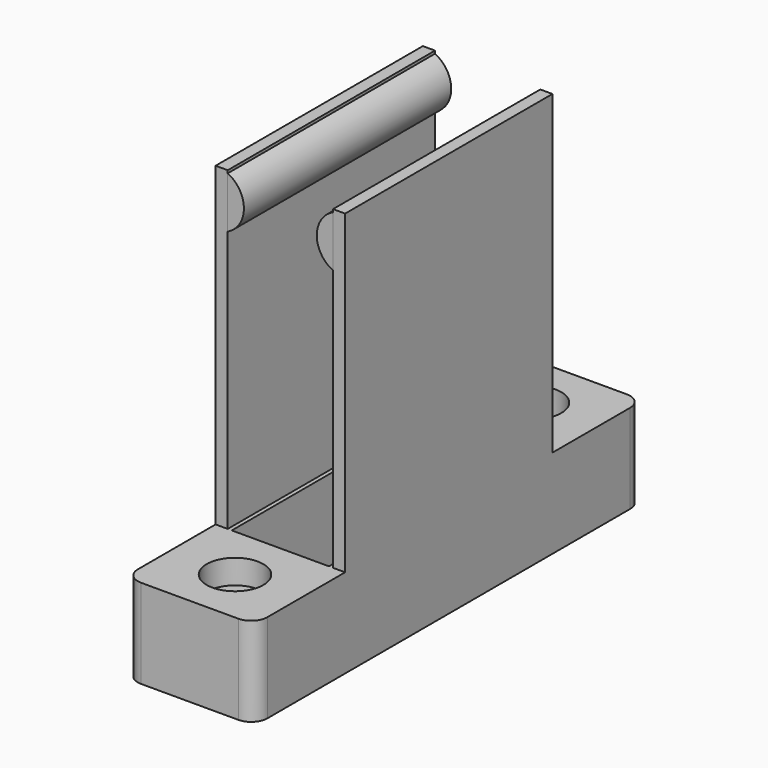
from build123d import *

# Parameters (mm, degrees)
F1_DEPTH  = 17.4625
F3_DEPTH  = 61.9125
F4_R      = 1.984375
F5_DEPTH  = 79.376
F7_DEPTH  = 50.8
F8_DEPTH  = 3.175
F9_R      = 1.984375
F10_DEPTH = 11.1125
F11_R     = 5.55625
F11_R_2   = 1.984375
F12_DEPTH = 4.7625


with BuildPart() as f1:
    # F0 (on Top) → F1 (new body)
    with BuildSketch(Plane.XY):
        with BuildLine():
            Line((22.225, 0), (3.175, 0))
            ThreePointArc((3.175, 0), (0.9299359697, -0.9299359697), (0, -3.175))
            Line((0, -3.175), (0, -92.075))
            ThreePointArc((0, -92.075), (0.9299359697, -94.3200640303), (3.175, -95.25))
            Line((3.175, -95.25), (22.225, -95.25))
            ThreePointArc((22.225, -95.25), (24.4700640303, -94.3200640303), (25.4, -92.075))
            Line((25.4, -92.075), (25.4, -3.175))
            ThreePointArc((25.4, -3.175), (24.4700640303, -0.9299359697), (22.225, 0))
        make_face()
        Polygon((3.175, -22.225), (12.7, -22.225), (22.225, -22.225), (22.225, -47.625), (22.225, -73.025), (12.7, -73.025), (3.175, -73.025), (3.175, -47.625), align=None, mode=Mode.SUBTRACT)
    extrude(amount=F1_DEPTH)

    # F2 (on face) → F3 (join)
    with BuildSketch(Plane.XY.offset(17.4625)):
        Polygon((2.38125, -47.625), (2.38125, -22.225), (0, -22.225), (0, -47.625), (0, -73.025), (2.38125, -73.025), align=None)
        Polygon((25.4, -47.625), (25.4, -22.225), (23.01875, -22.225), (23.01875, -47.625), (23.01875, -73.025), (25.4, -73.025), align=None)
    extrude(amount=F3_DEPTH)

    # F4 (on face) → F5 (cut, through all)
    with BuildSketch(Plane(origin=(0, 0, 0), x_dir=(1, 0, 0), z_dir=(0, 0, -1))):
        with Locations((12.7, 11.1125)):
            Circle(F4_R)
        with Locations((12.7, 84.1375)):
            Circle(F4_R)
    extrude(amount=-F5_DEPTH, mode=Mode.SUBTRACT)

    # F0 (on Top) → F8 (cut)
    with BuildSketch(Plane.XY):
        Polygon((22.225, -22.225), (12.7, -22.225), (3.175, -22.225), (3.175, -47.625), (3.175, -73.025), (12.7, -73.025), (22.225, -73.025), (22.225, -47.625), align=None)
    extrude(amount=F8_DEPTH, mode=Mode.SUBTRACT)

    # F9 (on face) → F10 (cut)
    with BuildSketch(Plane(origin=(0, 0, 0), x_dir=(1, 0, 0), z_dir=(0, 0, -1))):
        with Locations((12.7, 11.1125)):
            Circle(F9_R)
        with Locations((12.7, 84.1375)):
            Circle(F9_R)
        with BuildLine():
            Line((23.8125, 3.175), (23.8125, 20.6375))
            Line((23.8125, 20.6375), (13.49375, 20.6375))
            Line((13.49375, 20.6375), (13.49375, 14.5950639912))
            ThreePointArc((13.49375, 14.5950639912), (16.271875, 11.1125), (13.49375, 7.6299360088))
            Line((13.49375, 7.6299360088), (13.49375, 1.5875))
            Line((13.49375, 1.5875), (22.225, 1.5875))
            ThreePointArc((22.225, 1.5875), (23.3475320151, 2.0524679849), (23.8125, 3.175))
        make_face()
        with BuildLine():
            Line((22.225, 93.6625), (13.49375, 93.6625))
            Line((13.49375, 93.6625), (13.49375, 87.6200639912))
            ThreePointArc((13.49375, 87.6200639912), (16.271875, 84.1375), (13.49375, 80.6549360088))
            Line((13.49375, 80.6549360088), (13.49375, 74.6125))
            Line((13.49375, 74.6125), (23.8125, 74.6125))
            Line((23.8125, 74.6125), (23.8125, 92.075))
            ThreePointArc((23.8125, 92.075), (23.3475320151, 93.1975320151), (22.225, 93.6625))
        make_face()
        with BuildLine():
            ThreePointArc((11.90625, 80.6549360088), (9.128125, 84.1375), (11.90625, 87.6200639912))
            Line((11.90625, 87.6200639912), (11.90625, 93.6625))
            Line((11.90625, 93.6625), (3.175, 93.6625))
            ThreePointArc((3.175, 93.6625), (2.0524679849, 93.1975320151), (1.5875, 92.075))
            Line((1.5875, 92.075), (1.5875, 74.6125))
            Line((1.5875, 74.6125), (11.90625, 74.6125))
            Line((11.90625, 74.6125), (11.90625, 80.6549360088))
        make_face()
        with BuildLine():
            Line((11.90625, 20.6375), (1.5875, 20.6375))
            Line((1.5875, 20.6375), (1.5875, 3.175))
            ThreePointArc((1.5875, 3.175), (2.0524679849, 2.0524679849), (3.175, 1.5875))
            Line((3.175, 1.5875), (11.90625, 1.5875))
            Line((11.90625, 1.5875), (11.90625, 7.6299360088))
            ThreePointArc((11.90625, 7.6299360088), (9.128125, 11.1125), (11.90625, 14.5950639912))
            Line((11.90625, 14.5950639912), (11.90625, 20.6375))
        make_face()
    extrude(amount=-F10_DEPTH, mode=Mode.SUBTRACT)

    # F11 (on face) → F12 (cut)
    with BuildSketch(Plane.XY.offset(17.4625)):
        with Locations((12.7, -84.1375)):
            Circle(F11_R)
        with Locations((12.7, -84.1375)):
            Circle(F11_R_2, mode=Mode.SUBTRACT)
        with Locations((12.7, -84.1375)):
            Circle(F11_R)
        with Locations((12.7, -84.1375)):
            Circle(F11_R_2, mode=Mode.SUBTRACT)
        with Locations((12.7, -11.1125)):
            Circle(F11_R)
        with Locations((12.7, -11.1125)):
            Circle(F11_R_2, mode=Mode.SUBTRACT)
        with Locations((12.7, -11.1125)):
            Circle(F11_R_2)
    extrude(amount=-F12_DEPTH, mode=Mode.SUBTRACT)


with BuildPart() as f7:
    # F6 (on face) → F7 (new body)
    with BuildSketch(Plane(origin=(0, -22.225, 0), x_dir=(-1, 0, 0), z_dir=(0, 1, 0))):
        with BuildLine():
            ThreePointArc((-23.01875, 68.7922842145), (-19.84375, 73.8124), (-23.01875, 78.8325157855))
            Line((-23.01875, 78.8325157855), (-23.01875, 68.7922842145))
        make_face()
    extrude(amount=-F7_DEPTH)


with BuildPart() as f7b:
    # F6 (on face) → F7, piece 2 (new body)
    with BuildSketch(Plane(origin=(0, -22.225, 0), x_dir=(-1, 0, 0), z_dir=(0, 1, 0))):
        with BuildLine():
            Line((-2.38125, 68.7922842145), (-2.38125, 78.8325157855))
            ThreePointArc((-2.38125, 78.8325157855), (-5.55625, 73.8124), (-2.38125, 68.7922842145))
        make_face()
    extrude(amount=-F7_DEPTH)


solid = Compound([f1.part, f7.part, f7b.part])
